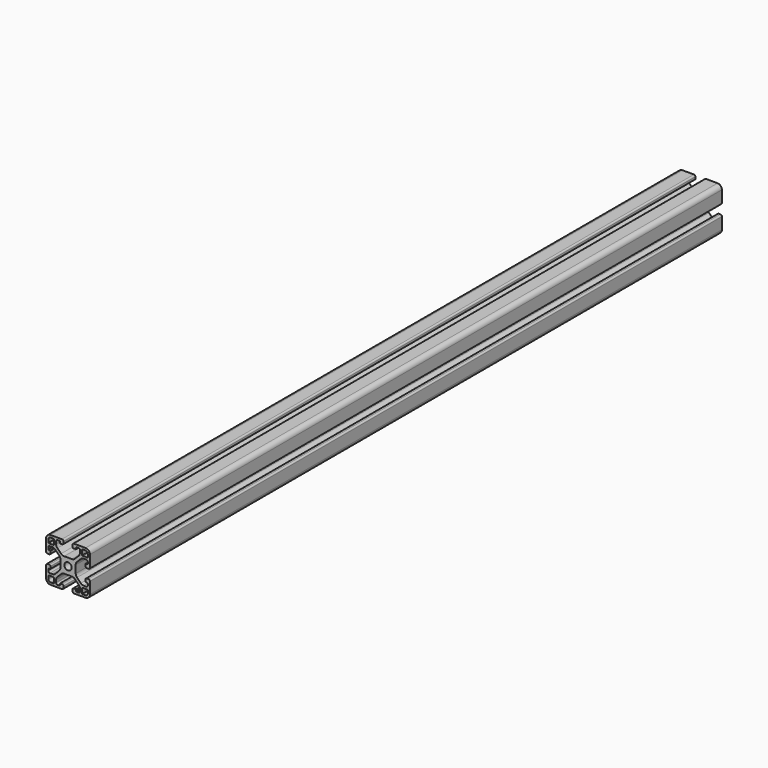
from build123d import *

# Parameters (mm, degrees)
F0_R     = 2.5
F1_DEPTH = 540


with BuildPart() as f1:
    # F0 (on Front) → F1 (new body)
    with BuildSketch(Plane.XZ):
        with BuildLine():
            Line((2.593146, 5.25), (0, 5.25))
            Line((0, 5.25), (-2.593146, 5.25))
            ThreePointArc((-2.593146, 5.25), (-3.741196, 5.478361), (-4.714466, 6.12868))
            Line((-4.714466, 6.12868), (-7.27132, 8.685534))
            ThreePointArc((-7.27132, 8.685534), (-7.921639, 9.658804), (-8.15, 10.806854))
            Line((-8.15, 10.806854), (-8.15, 12.5))
            ThreePointArc((-8.15, 12.5), (-7.857107, 13.207107), (-7.15, 13.5))
            Line((-7.15, 13.5), (-5.9, 13.5))
            ThreePointArc((-5.9, 13.5), (-5.687868, 13.412132), (-5.6, 13.2))
            Line((-5.6, 13.2), (-5.6, 12.3))
            ThreePointArc((-5.6, 12.3), (-5.512132, 12.087868), (-5.3, 12))
            Line((-5.3, 12), (-3.9, 12))
            ThreePointArc((-3.9, 12), (-3.334315, 12.234315), (-3.1, 12.8))
            Line((-3.1, 12.8), (-3.1, 14))
            ThreePointArc((-3.1, 14), (-3.392893, 14.707107), (-4.1, 15))
            Line((-4.1, 15), (-12, 15))
            ThreePointArc((-12, 15), (-14.12132, 14.12132), (-15, 12))
            Line((-15, 12), (-15, 4.1))
            ThreePointArc((-15, 4.1), (-14.707107, 3.392893), (-14, 3.1))
            Line((-14, 3.1), (-12.8, 3.1))
            ThreePointArc((-12.8, 3.1), (-12.234315, 3.334315), (-12, 3.9))
            Line((-12, 3.9), (-12, 5.3))
            ThreePointArc((-12, 5.3), (-12.087868, 5.512132), (-12.3, 5.6))
            Line((-12.3, 5.6), (-13.2, 5.6))
            ThreePointArc((-13.2, 5.6), (-13.412132, 5.687868), (-13.5, 5.9))
            Line((-13.5, 5.9), (-13.5, 7.15))
            ThreePointArc((-13.5, 7.15), (-13.207107, 7.857107), (-12.5, 8.15))
            Line((-12.5, 8.15), (-10.806854, 8.15))
            ThreePointArc((-10.806854, 8.15), (-9.658804, 7.921639), (-8.685534, 7.27132))
            Line((-8.685534, 7.27132), (-6.12868, 4.714466))
            ThreePointArc((-6.12868, 4.714466), (-5.478361, 3.741196), (-5.25, 2.593146))
            Line((-5.25, 2.593146), (-5.25, 0))
            Line((-5.25, 0), (-5.25, -2.593146))
            ThreePointArc((-5.25, -2.593146), (-5.478361, -3.741196), (-6.12868, -4.714466))
            Line((-6.12868, -4.714466), (-8.685534, -7.27132))
            ThreePointArc((-8.685534, -7.27132), (-9.658804, -7.921639), (-10.806854, -8.15))
            Line((-10.806854, -8.15), (-12.5, -8.15))
            ThreePointArc((-12.5, -8.15), (-13.207107, -7.857107), (-13.5, -7.15))
            Line((-13.5, -7.15), (-13.5, -5.9))
            ThreePointArc((-13.5, -5.9), (-13.412132, -5.687868), (-13.2, -5.6))
            Line((-13.2, -5.6), (-12.3, -5.6))
            ThreePointArc((-12.3, -5.6), (-12.087868, -5.512132), (-12, -5.3))
            Line((-12, -5.3), (-12, -3.9))
            ThreePointArc((-12, -3.9), (-12.234315, -3.334315), (-12.8, -3.1))
            Line((-12.8, -3.1), (-14, -3.1))
            ThreePointArc((-14, -3.1), (-14.707107, -3.392893), (-15, -4.1))
            Line((-15, -4.1), (-15, -12))
            ThreePointArc((-15, -12), (-14.12132, -14.12132), (-12, -15))
            Line((-12, -15), (-4.1, -15))
            ThreePointArc((-4.1, -15), (-3.392893, -14.707107), (-3.1, -14))
            Line((-3.1, -14), (-3.1, -12.8))
            ThreePointArc((-3.1, -12.8), (-3.334315, -12.234315), (-3.9, -12))
            Line((-3.9, -12), (-5.3, -12))
            ThreePointArc((-5.3, -12), (-5.512132, -12.087868), (-5.6, -12.3))
            Line((-5.6, -12.3), (-5.6, -13.2))
            ThreePointArc((-5.6, -13.2), (-5.687868, -13.412132), (-5.9, -13.5))
            Line((-5.9, -13.5), (-7.15, -13.5))
            ThreePointArc((-7.15, -13.5), (-7.857107, -13.207107), (-8.15, -12.5))
            Line((-8.15, -12.5), (-8.15, -10.806854))
            ThreePointArc((-8.15, -10.806854), (-7.921639, -9.658804), (-7.27132, -8.685534))
            Line((-7.27132, -8.685534), (-4.714466, -6.12868))
            ThreePointArc((-4.714466, -6.12868), (-3.741196, -5.478361), (-2.593146, -5.25))
            Line((-2.593146, -5.25), (0, -5.25))
            Line((0, -5.25), (2.593146, -5.25))
            ThreePointArc((2.593146, -5.25), (3.741196, -5.478361), (4.714466, -6.12868))
            Line((4.714466, -6.12868), (7.27132, -8.685534))
            ThreePointArc((7.27132, -8.685534), (7.921639, -9.658804), (8.15, -10.806854))
            Line((8.15, -10.806854), (8.15, -12.5))
            ThreePointArc((8.15, -12.5), (7.857107, -13.207107), (7.15, -13.5))
            Line((7.15, -13.5), (5.9, -13.5))
            ThreePointArc((5.9, -13.5), (5.687868, -13.412132), (5.6, -13.2))
            Line((5.6, -13.2), (5.6, -12.3))
            ThreePointArc((5.6, -12.3), (5.512132, -12.087868), (5.3, -12))
            Line((5.3, -12), (3.9, -12))
            ThreePointArc((3.9, -12), (3.334315, -12.234315), (3.1, -12.8))
            Line((3.1, -12.8), (3.1, -14))
            ThreePointArc((3.1, -14), (3.392893, -14.707107), (4.1, -15))
            Line((4.1, -15), (12, -15))
            ThreePointArc((12, -15), (14.12132, -14.12132), (15, -12))
            Line((15, -12), (15, -4.1))
            ThreePointArc((15, -4.1), (14.707107, -3.392893), (14, -3.1))
            Line((14, -3.1), (12.8, -3.1))
            ThreePointArc((12.8, -3.1), (12.234315, -3.334315), (12, -3.9))
            Line((12, -3.9), (12, -5.3))
            ThreePointArc((12, -5.3), (12.087868, -5.512132), (12.3, -5.6))
            Line((12.3, -5.6), (13.2, -5.6))
            ThreePointArc((13.2, -5.6), (13.412132, -5.687868), (13.5, -5.9))
            Line((13.5, -5.9), (13.5, -7.15))
            ThreePointArc((13.5, -7.15), (13.207107, -7.857107), (12.5, -8.15))
            Line((12.5, -8.15), (10.806854, -8.15))
            ThreePointArc((10.806854, -8.15), (9.658804, -7.921639), (8.685534, -7.27132))
            Line((8.685534, -7.27132), (6.12868, -4.714466))
            ThreePointArc((6.12868, -4.714466), (5.478361, -3.741196), (5.25, -2.593146))
            Line((5.25, -2.593146), (5.25, 0))
            Line((5.25, 0), (5.25, 2.593146))
            ThreePointArc((5.25, 2.593146), (5.478361, 3.741196), (6.12868, 4.714466))
            Line((6.12868, 4.714466), (8.685534, 7.27132))
            ThreePointArc((8.685534, 7.27132), (9.658804, 7.921639), (10.806854, 8.15))
            Line((10.806854, 8.15), (12.5, 8.15))
            ThreePointArc((12.5, 8.15), (13.207107, 7.857107), (13.5, 7.15))
            Line((13.5, 7.15), (13.5, 5.9))
            ThreePointArc((13.5, 5.9), (13.412132, 5.687868), (13.2, 5.6))
            Line((13.2, 5.6), (12.3, 5.6))
            ThreePointArc((12.3, 5.6), (12.087868, 5.512132), (12, 5.3))
            Line((12, 5.3), (12, 3.9))
            ThreePointArc((12, 3.9), (12.234315, 3.334315), (12.8, 3.1))
            Line((12.8, 3.1), (14, 3.1))
            ThreePointArc((14, 3.1), (14.707107, 3.392893), (15, 4.1))
            Line((15, 4.1), (15, 12))
            ThreePointArc((15, 12), (14.12132, 14.12132), (12, 15))
            Line((12, 15), (4.1, 15))
            ThreePointArc((4.1, 15), (3.392893, 14.707107), (3.1, 14))
            Line((3.1, 14), (3.1, 12.8))
            ThreePointArc((3.1, 12.8), (3.334315, 12.234315), (3.9, 12))
            Line((3.9, 12), (5.3, 12))
            ThreePointArc((5.3, 12), (5.512132, 12.087868), (5.6, 12.3))
            Line((5.6, 12.3), (5.6, 13.2))
            ThreePointArc((5.6, 13.2), (5.687868, 13.412132), (5.9, 13.5))
            Line((5.9, 13.5), (7.15, 13.5))
            ThreePointArc((7.15, 13.5), (7.857107, 13.207107), (8.15, 12.5))
            Line((8.15, 12.5), (8.15, 10.806854))
            ThreePointArc((8.15, 10.806854), (7.921639, 9.658804), (7.27132, 8.685534))
            Line((7.27132, 8.685534), (4.714466, 6.12868))
            ThreePointArc((4.714466, 6.12868), (3.741196, 5.478361), (2.593146, 5.25))
        make_face()
        with BuildLine():
            ThreePointArc((-9.95, -9.65), (-9.737868, -9.737868), (-9.65, -9.95))
            Line((-9.65, -9.95), (-9.65, -13.2))
            ThreePointArc((-9.65, -13.2), (-9.737868, -13.412132), (-9.95, -13.5))
            Line((-9.95, -13.5), (-12, -13.5))
            ThreePointArc((-12, -13.5), (-13.06066, -13.06066), (-13.5, -12))
            Line((-13.5, -12), (-13.5, -9.95))
            ThreePointArc((-13.5, -9.95), (-13.412132, -9.737868), (-13.2, -9.65))
            Line((-13.2, -9.65), (-9.95, -9.65))
        make_face(mode=Mode.SUBTRACT)
        with BuildLine():
            Line((12, -13.5), (9.95, -13.5))
            ThreePointArc((9.95, -13.5), (9.737868, -13.412132), (9.65, -13.2))
            Line((9.65, -13.2), (9.65, -9.95))
            ThreePointArc((9.65, -9.95), (9.737868, -9.737868), (9.95, -9.65))
            Line((9.95, -9.65), (13.2, -9.65))
            ThreePointArc((13.2, -9.65), (13.412132, -9.737868), (13.5, -9.95))
            Line((13.5, -9.95), (13.5, -12))
            ThreePointArc((13.5, -12), (13.06066, -13.06066), (12, -13.5))
        make_face(mode=Mode.SUBTRACT)
        with BuildLine():
            Line((-9.95, 9.65), (-13.2, 9.65))
            ThreePointArc((-13.2, 9.65), (-13.412132, 9.737868), (-13.5, 9.95))
            Line((-13.5, 9.95), (-13.5, 12))
            ThreePointArc((-13.5, 12), (-13.06066, 13.06066), (-12, 13.5))
            Line((-12, 13.5), (-9.95, 13.5))
            ThreePointArc((-9.95, 13.5), (-9.737868, 13.412132), (-9.65, 13.2))
            Line((-9.65, 13.2), (-9.65, 9.95))
            ThreePointArc((-9.65, 9.95), (-9.737868, 9.737868), (-9.95, 9.65))
        make_face(mode=Mode.SUBTRACT)
        Circle(F0_R, mode=Mode.SUBTRACT)
        with BuildLine():
            ThreePointArc((9.65, 13.2), (9.737868, 13.412132), (9.95, 13.5))
            Line((9.95, 13.5), (12, 13.5))
            ThreePointArc((12, 13.5), (13.06066, 13.06066), (13.5, 12))
            Line((13.5, 12), (13.5, 9.95))
            ThreePointArc((13.5, 9.95), (13.412132, 9.737868), (13.2, 9.65))
            Line((13.2, 9.65), (9.95, 9.65))
            ThreePointArc((9.95, 9.65), (9.737868, 9.737868), (9.65, 9.95))
            Line((9.65, 9.95), (9.65, 13.2))
        make_face(mode=Mode.SUBTRACT)
    extrude(amount=F1_DEPTH)


solid = f1.part
